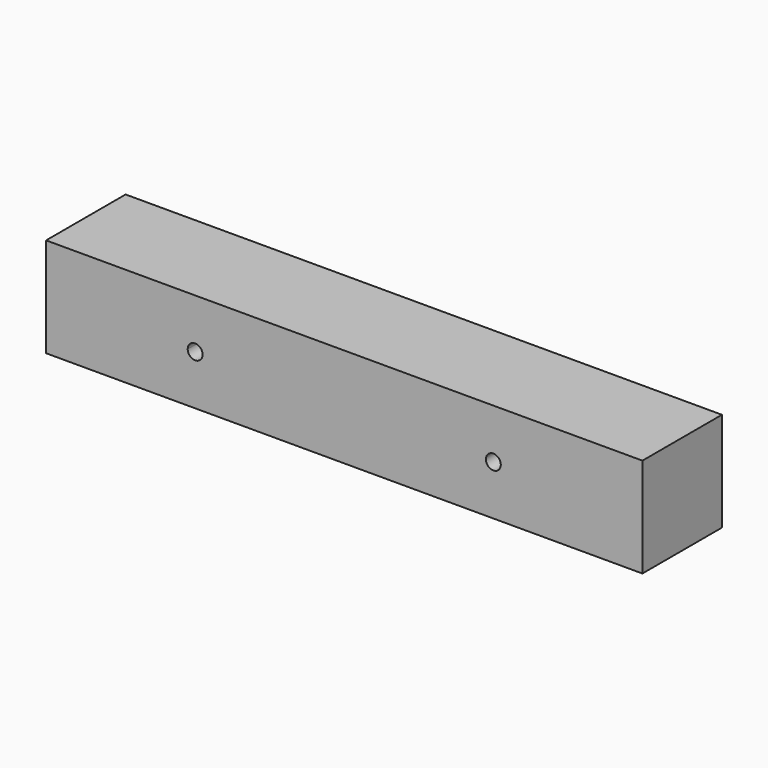
from build123d import *

# Parameters (mm, degrees)
F0_W     = 15
F0_H     = 10
F0_W_2   = 30
F1_DEPTH = 10
F3_D     = 1.5
F3_DEPTH = 5
F2_R     = 0.75
F4_DEPTH = 25


with BuildPart() as f1:
    # F0 (on Front) → F1 (new body)
    with BuildSketch(Plane.XZ):
        with Locations((-53.005068, 3.119589)):
            Rectangle(F0_W, F0_H)
        with Locations((-30.505068, 3.119589)):
            Rectangle(F0_W_2, F0_H)
        with Locations((-8.005068, 3.119589)):
            Rectangle(F0_W, F0_H)
    extrude(amount=F1_DEPTH)

    # F3
    with Locations(Plane.XZ.offset(10)):
        with Locations((-45.505068, 3.119589)):
            Hole(F3_D / 2, depth=F3_DEPTH)

    # F2 (on face) → F4 (cut)
    with BuildSketch(Plane.XZ.offset(10)):
        with Locations((-45.505068, 3.119589)):
            Circle(F2_R)
        with Locations((-15.505068, 3.119589)):
            Circle(F2_R)
    extrude(amount=-F4_DEPTH, mode=Mode.SUBTRACT)


solid = f1.part
